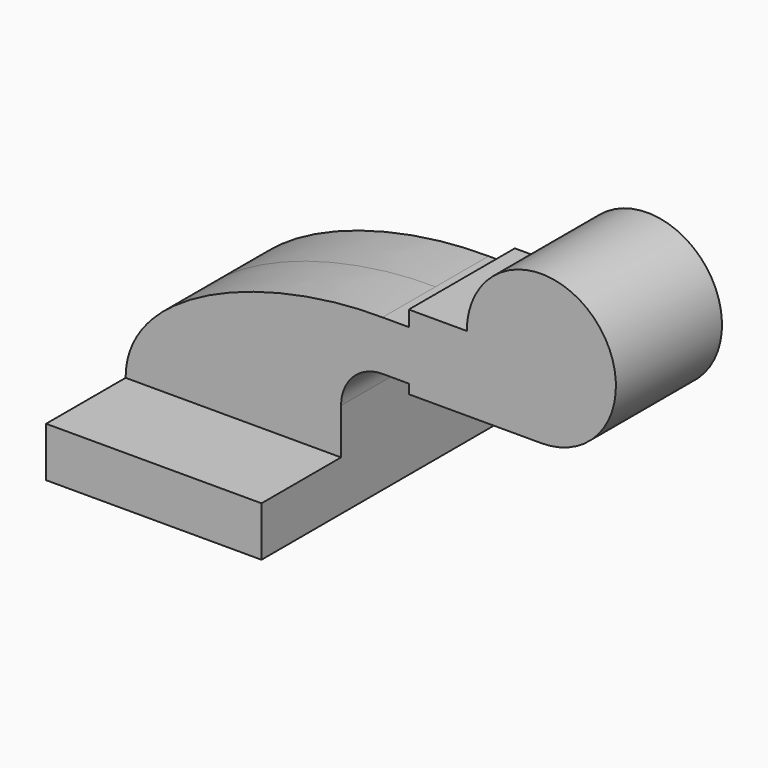
from build123d import *

# Parameters (mm, degrees)
F1_DEPTH  = 63.5
F0_W      = 26.6759653056
F0_H      = 19.05
F0_H_2    = 5.927620608
F2_DEPTH  = 25.4
F2_FACE_W = 50.8
F2_FACE_H = 28.575


with BuildPart() as f1:
    # F0 (on Front) → F1 (new body, symmetric)
    with BuildSketch(Plane.XZ):
        Polygon((-41.275, 9.525), (-41.275, -9.525), (41.275, -9.525), (41.275, 9.525), (22.225, 9.525), align=None)
    extrude(amount=F1_DEPTH, both=True)

    # F0 (on Front) → F2 (join, symmetric)
    with BuildSketch(Plane.XZ):
        Polygon((-41.275, 9.525), (-41.275, -9.525), (41.275, -9.525), (41.275, 9.525), (22.225, 9.525), align=None)
        with BuildLine():
            add(Edge.make_bspline(
                [(-41.275, 9.525), (-41.3433387876, 42.0196428895), (13.0519531667, 62.4538473785), (57.15, 61.9252)],
                knots=[0, 0, 0, 0, 111.5045361635, 111.5045361635, 111.5045361635, 111.5045361635], degree=3))
            Line((-41.275, 9.525), (22.225, 9.525))
            Line((22.225, 9.525), (22.225, 27.0002))
            ThreePointArc((22.225, 27.0002), (32.4542956671, 51.6959043329), (57.15, 61.9252))
        make_face()
        with BuildLine():
            Line((22.225, 9.525), (41.275, 9.525))
            Line((41.275, 9.525), (41.275, 27.0002))
            ThreePointArc((41.275, 27.0002), (45.9246798487, 38.2255201513), (57.15, 42.8752))
            Line((57.15, 42.8752), (67.2383028494, 42.8752))
            Line((67.2383028494, 42.8752), (67.2383028494, 61.9252))
            Line((67.2383028494, 61.9252), (57.15, 61.9252))
            ThreePointArc((57.15, 61.9252), (32.4542956671, 51.6959043329), (22.225, 27.0002))
            Line((22.225, 27.0002), (22.225, 9.525))
        make_face()
        with Locations((80.5762855022, 52.4002)):
            Rectangle(F0_W, F0_H)
        with Locations((80.5762855022, 64.889010304)):
            Rectangle(F0_W, F0_H_2)
        Polygon((93.914268155, 42.8752), (67.2383028494, 42.8752), (67.2383028494, 39.277820608), (118.0383028494, 39.277820608), (118.0383028494, 67.852820608), (93.914268155, 67.852820608), (93.914268155, 61.9252), align=None)
    extrude(amount=F2_DEPTH, both=True)

    # F2_face (on face) → F3 (revolve)
    with BuildSketch(Plane(origin=(118.0383028494, 0, 53.565320608), x_dir=(0, 1, 0), z_dir=(1, 0, 0))):
        Rectangle(F2_FACE_W, F2_FACE_H)
    revolve(axis=Axis((118.0383028494, 0, 67.852820608), (0, 1, 0)))


solid = f1.part
